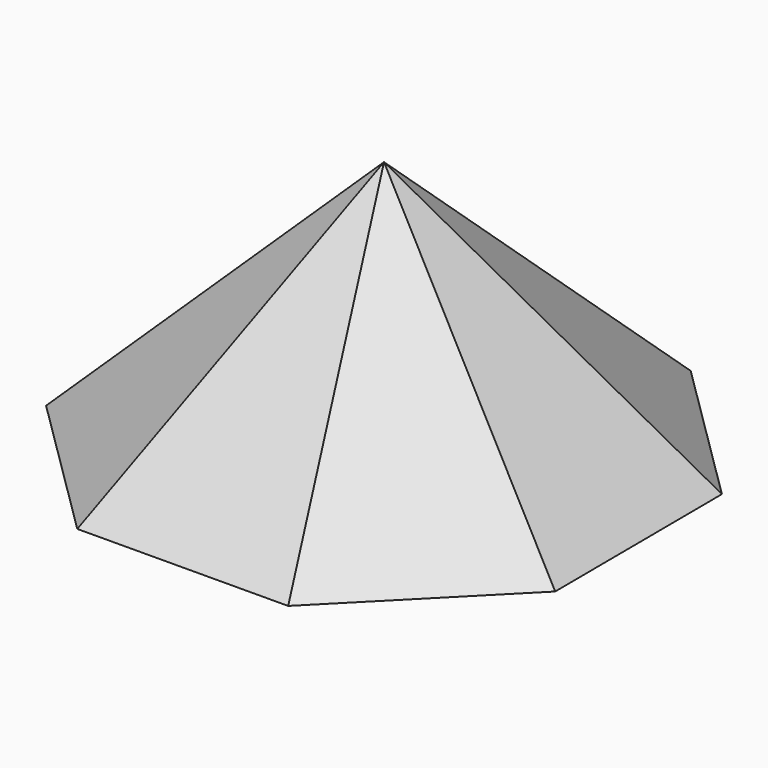
from build123d import *

# Parameters (mm, degrees)
F1_DEPTH = 184.15
F1_TAPER = 45
F2_T     = -6.35


with BuildPart() as f1:
    # F0 (on Top) → F1 (new body)
    with BuildSketch(Plane.XY):
        Polygon((-77.2562975776, 183.5219792799), (-184.3980879521, 75.1411841391), (-183.5219792799, -77.2562975776), (-75.1411841391, -184.3980879521), (77.2562975776, -183.5219792799), (184.3980879521, -75.1411841391), (183.5219792799, 77.2562975776), (75.1411841391, 184.3980879521), align=None)
    extrude(amount=F1_DEPTH, taper=F1_TAPER)

    # F2
    f2_openings = [f1.faces().sort_by_distance(p)[0] for p in [
        (0, 0, 0),
    ]]
    offset(amount=F2_T, openings=f2_openings)


solid = f1.part
